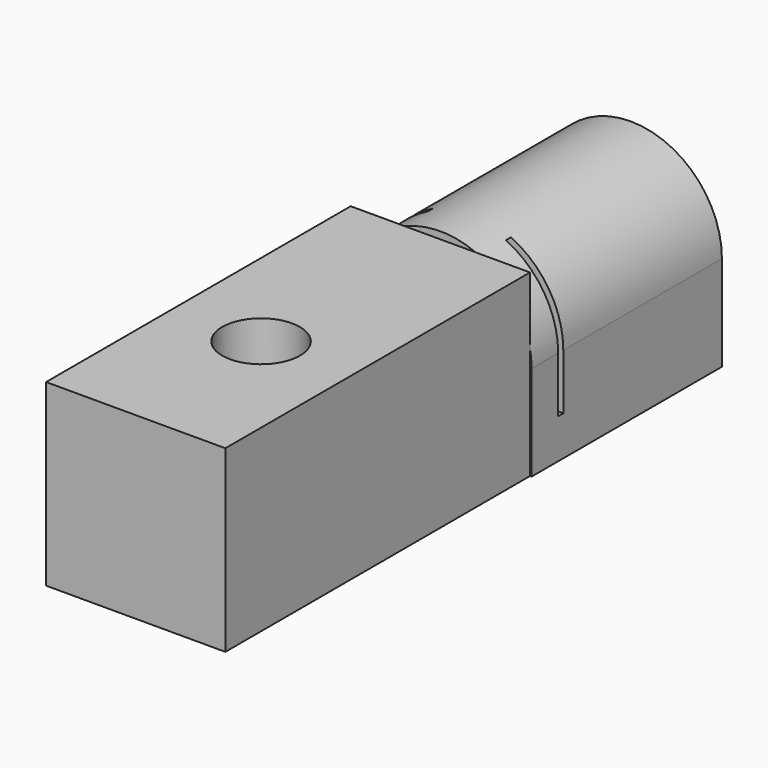
from build123d import *

# Parameters (mm, degrees)
F0_W      = 11.5
F0_H      = 6
F1_DEPTH  = 15
F2_W      = 11.3
F2_H      = 11.3
F3_DEPTH  = 24
F5_W      = 12.6701932168
F5_H      = 0.4
F6_DEPTH  = 5.2
F7_W      = 9.9
F7_H      = 0.3
F8_DEPTH  = 6
F9_D      = 4.9
F10_DEPTH = 3.5


with BuildPart() as f1:
    # F0 (on Front) → F1 (new body)
    with BuildSketch(Plane.XZ):
        with BuildLine():
            ThreePointArc((11.5, 6), (5.75, 11.75), (0, 6))
            Line((0, 6), (11.5, 6))
        make_face()
        with Locations((5.75, 3)):
            Rectangle(F0_W, F0_H)
    extrude(amount=F1_DEPTH)

    # F2 (on face) → F3 (join)
    with BuildSketch(Plane.XZ.offset(15)):
        with Locations((5.75, 5.65)):
            Rectangle(F2_W, F2_H)
    extrude(amount=F3_DEPTH)

    # F5 (on 3pt) → F6 (cut)
    with BuildSketch(Plane(origin=(0, 0, 6), x_dir=(1, 0, 0), z_dir=(0, 0, -1))):
        with Locations((6.4887672779, 12.7)):
            Rectangle(F5_W, F5_H)
    extrude(amount=-F6_DEPTH, mode=Mode.SUBTRACT)

    # F7 (on face) → F8 (cut, through all)
    with BuildSketch(Plane(origin=(0, 0, 0), x_dir=(1, 0, 0), z_dir=(0, 0, -1))):
        with Locations((5.75, 12.7)):
            Rectangle(F7_W, F7_H)
    extrude(amount=-F8_DEPTH, mode=Mode.SUBTRACT)

    # F9 (through all)
    with Locations(Plane(origin=(0, 0, 0), x_dir=(1, 0, 0), z_dir=(0, 0, -1))):
        with Locations((5.65, 29)):
            Hole(F9_D / 2)

    # F5 (on 3pt) → F10 (cut)
    with BuildSketch(Plane(origin=(0, 0, 6), x_dir=(1, 0, 0), z_dir=(0, 0, -1))):
        with Locations((6.4887672779, 12.7)):
            Rectangle(F5_W, F5_H)
    extrude(amount=F10_DEPTH, mode=Mode.SUBTRACT)


solid = f1.part
